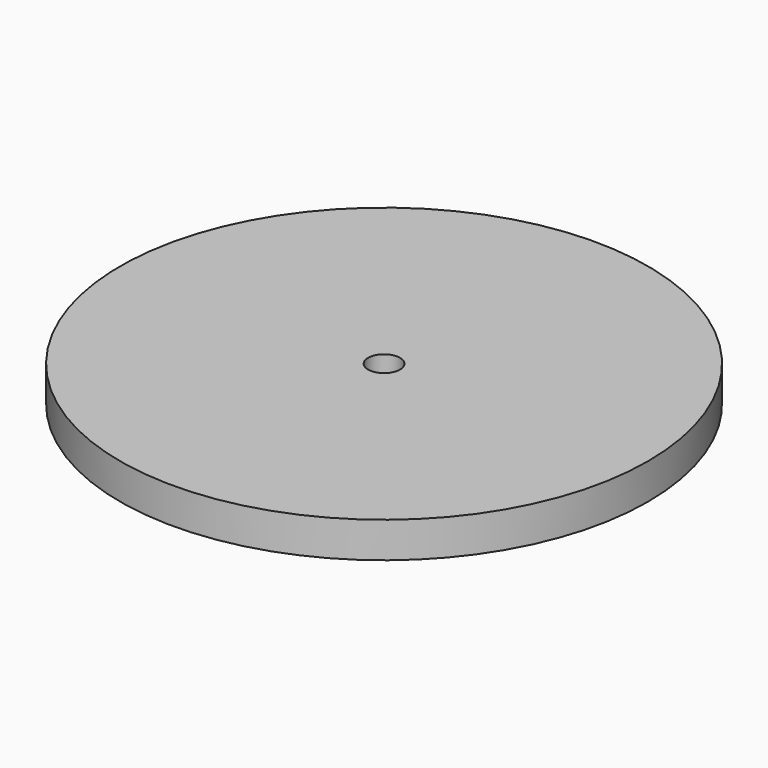
from build123d import *

# Parameters (mm, degrees)
F0_R     = 148
F0_R_2   = 8.95
F1_DEPTH = 20
F2_R     = 82.5
F2_R_2   = 8.95
F3_DEPTH = 8
F2_R_3   = 19.05
F4_DEPTH = 10


with BuildPart() as f1:
    # F0 (on Top) → F1 (new body)
    with BuildSketch(Plane.XY):
        Circle(F0_R)
        Circle(F0_R_2, mode=Mode.SUBTRACT)
    extrude(amount=-F1_DEPTH)

    # F2 (on face) → F3 (cut)
    with BuildSketch(Plane(origin=(0, 0, -20), x_dir=(1, 0, 0), z_dir=(0, 0, -1))):
        Circle(F2_R)
        Circle(F2_R_2, mode=Mode.SUBTRACT)
    extrude(amount=-F3_DEPTH, mode=Mode.SUBTRACT)

    # F2 (on face) → F4 (cut)
    with BuildSketch(Plane(origin=(0, 0, -20), x_dir=(1, 0, 0), z_dir=(0, 0, -1))):
        with Locations((-99.809428, 57.625)):
            Circle(F2_R_3)
        with Locations((-99.809428, -57.625)):
            Circle(F2_R_3)
        with Locations((0, -115.25)):
            Circle(F2_R_3)
        with Locations((99.809428, -57.625)):
            Circle(F2_R_3)
        with Locations((99.809428, 57.625)):
            Circle(F2_R_3)
        with Locations((0, 115.25)):
            Circle(F2_R_3)
    extrude(amount=-F4_DEPTH, mode=Mode.SUBTRACT)


with BuildPart() as f5_1:
    # F5: copy of F1
    add(f1.part)


solid = Compound([f1.part, f5_1.part])
